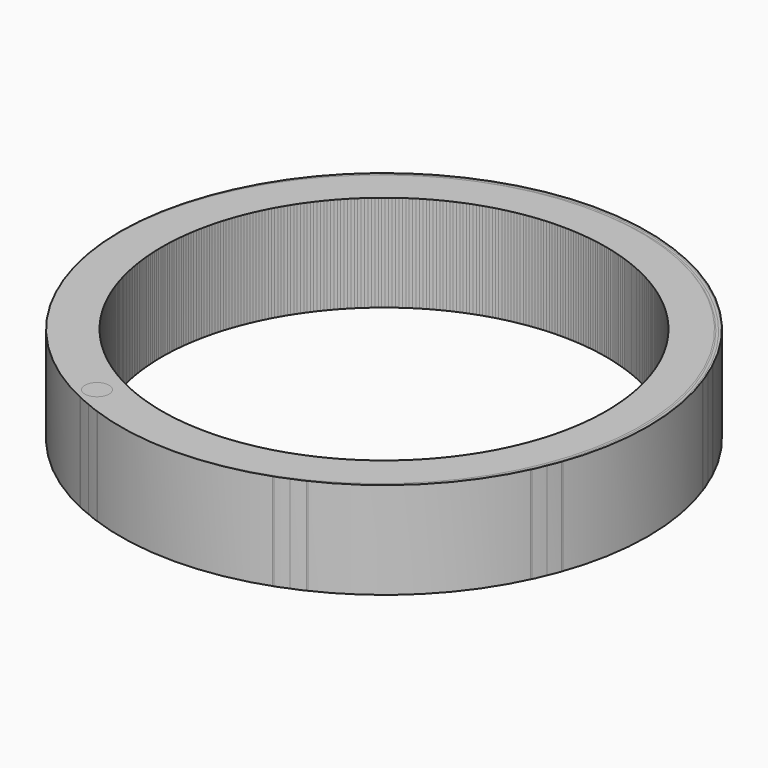
from build123d import *

# Parameters (mm, degrees)
F1_R     = 85.725
F1_R_2   = 73.025
F2_DEPTH = 31.75
F4_R     = 3.968581
F5_DEPTH = 38.1
F6_COUNT = 8


with BuildPart() as f2:
    # F1 (on face) → F2 (new body)
    with BuildSketch(Plane.XY):
        with Locations((-65.490088, 0)):
            Circle(F1_R)
        with Locations((-64.530158, 0)):
            Circle(F1_R_2, mode=Mode.SUBTRACT)
    extrude(amount=F2_DEPTH)

    # F4 (on face) → F5 (cut)
    with BuildSketch(Plane.XY.offset(31.75)):
        with Locations((-141.401112, -25.297575)):
            Circle(F4_R)
    extrude(amount=-F5_DEPTH, mode=Mode.SUBTRACT)


with BuildPart() as f6_1:
    # F6: instance of F2
    add(f2.part.rotate(Axis((-64.530158, 0, 0), (0, 0, -1)), 1 * 360 / F6_COUNT))


with BuildPart() as f6_2:
    # F6: instance of F2
    add(f2.part.rotate(Axis((-64.530158, 0, 0), (0, 0, -1)), 2 * 360 / F6_COUNT))


with BuildPart() as f6_3:
    # F6: instance of F2
    add(f2.part.rotate(Axis((-64.530158, 0, 0), (0, 0, -1)), 3 * 360 / F6_COUNT))


with BuildPart() as f6_4:
    # F6: instance of F2
    add(f2.part.rotate(Axis((-64.530158, 0, 0), (0, 0, -1)), 4 * 360 / F6_COUNT))


with BuildPart() as f6_5:
    # F6: instance of F2
    add(f2.part.rotate(Axis((-64.530158, 0, 0), (0, 0, -1)), 5 * 360 / F6_COUNT))


with BuildPart() as f6_6:
    # F6: instance of F2
    add(f2.part.rotate(Axis((-64.530158, 0, 0), (0, 0, -1)), 6 * 360 / F6_COUNT))


with BuildPart() as f6_7:
    # F6: instance of F2
    add(f2.part.rotate(Axis((-64.530158, 0, 0), (0, 0, -1)), 7 * 360 / F6_COUNT))


solid = Compound([f2.part, f6_1.part, f6_2.part, f6_3.part, f6_4.part, f6_5.part, f6_6.part, f6_7.part])
